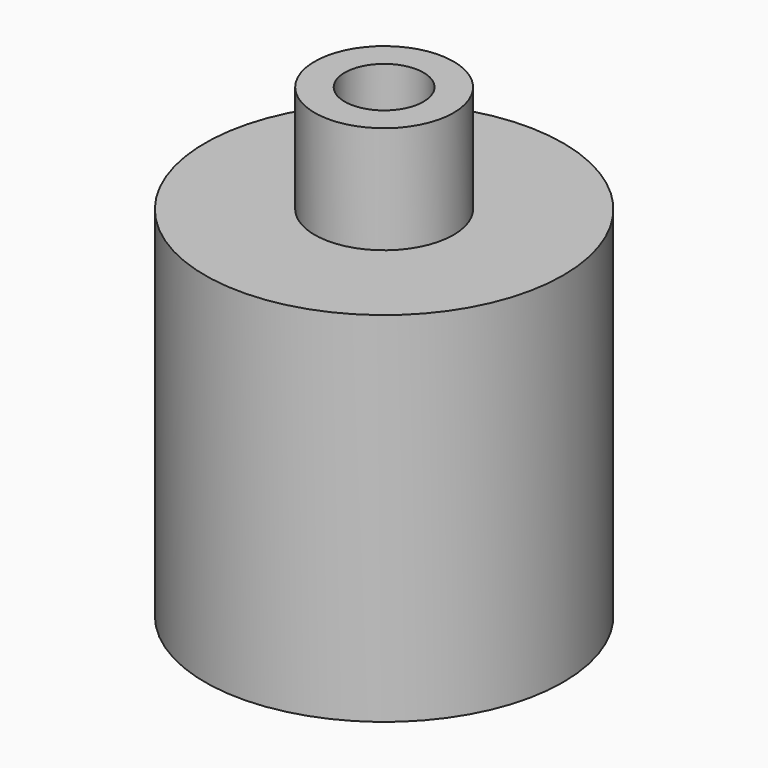
from build123d import *

# Parameters (mm, degrees)
SKETCH188_R     = 2.5
SKETCH188_R_2   = 0.5
PAD118_DEPTH    = 1
SKETCH180_R     = 0.97
SKETCH180_R_2   = 0.55
PAD121_DEPTH    = 1.5
SKETCH304_R     = 2.5
SKETCH304_R_2   = 1.5
PAD209_DEPTH    = 4
CHAMFER001_SIZE = 0.95


with BuildPart() as part:
    # Sketch188 → Pad118 (new body)
    with BuildSketch(Plane.XY):
        Circle(SKETCH188_R)
        Circle(SKETCH188_R_2, mode=Mode.SUBTRACT)
    extrude(amount=PAD118_DEPTH)

    # Sketch180 (on Face4 of Pad118) → Pad121 (join)
    with BuildSketch(Plane.XY.offset(1)):
        Circle(SKETCH180_R)
        Circle(SKETCH180_R_2, mode=Mode.SUBTRACT)
    extrude(amount=PAD121_DEPTH)

    # Sketch304 (on Face2 of Pad121) → Pad209 (join)
    with BuildSketch(Plane(origin=(0, 0, 0), x_dir=(1, 0, 0), z_dir=(0, 0, -1))):
        Circle(SKETCH304_R)
        Circle(SKETCH304_R_2, mode=Mode.SUBTRACT)
    extrude(amount=PAD209_DEPTH)

    # Chamfer001
    chamfer001_edges = [part.edges().sort_by_distance(p)[0] for p in [
        (-1.5, 0, 0),
    ]]
    chamfer(chamfer001_edges, length=CHAMFER001_SIZE)


with BuildPart() as part_1:
    # Body015 placement: moved
    add(part.part.moved(Location((0, 0, -2.2))))


solid = part_1.part
